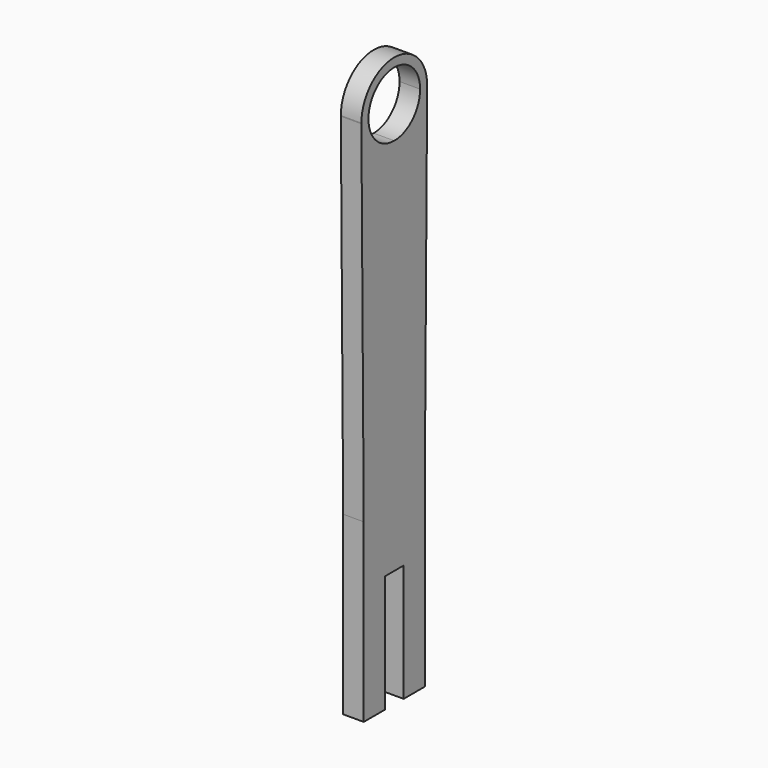
from build123d import *

# Parameters (mm, degrees)
F1_DEPTH = 7


with BuildPart() as f1:
    # F0 (on Right) → F1 (new body)
    with BuildSketch(Plane.YZ):
        with BuildLine():
            Line((-57.826925, -19.807692), (-57.826925, 20.192308))
            Line((-57.826925, 20.192308), (-49.826925, 20.192308))
            Line((-49.826925, 20.192308), (-49.826925, -19.807692))
            Line((-49.826925, -19.807692), (-40.826925, -19.807692))
            Line((-40.826925, -19.807692), (-40.826925, 40.192308))
            Line((-40.826925, 40.192308), (-39.828869, 159.95899))
            Line((-39.828869, 159.95899), (-39.826925, 160.192308))
            ThreePointArc((-39.826925, 160.192308), (-53.826925, 174.192308), (-67.826925, 160.192308))
            Line((-67.826925, 160.192308), (-67.82498, 159.95899))
            Line((-67.82498, 159.95899), (-66.826925, 40.192308))
            Line((-66.826925, 40.192308), (-66.826925, -19.807692))
            Line((-66.826925, -19.807692), (-57.826925, -19.807692))
        make_face()
        with BuildLine():
            ThreePointArc((-42.826925, 160.192308), (-46.04875, 152.414133), (-53.826925, 149.192308))
            ThreePointArc((-53.826925, 149.192308), (-61.605099, 152.414133), (-64.826925, 160.192308))
            ThreePointArc((-64.826925, 160.192308), (-53.826925, 171.192308), (-42.826925, 160.192308))
        make_face(mode=Mode.SUBTRACT)
    extrude(amount=F1_DEPTH)


solid = f1.part
